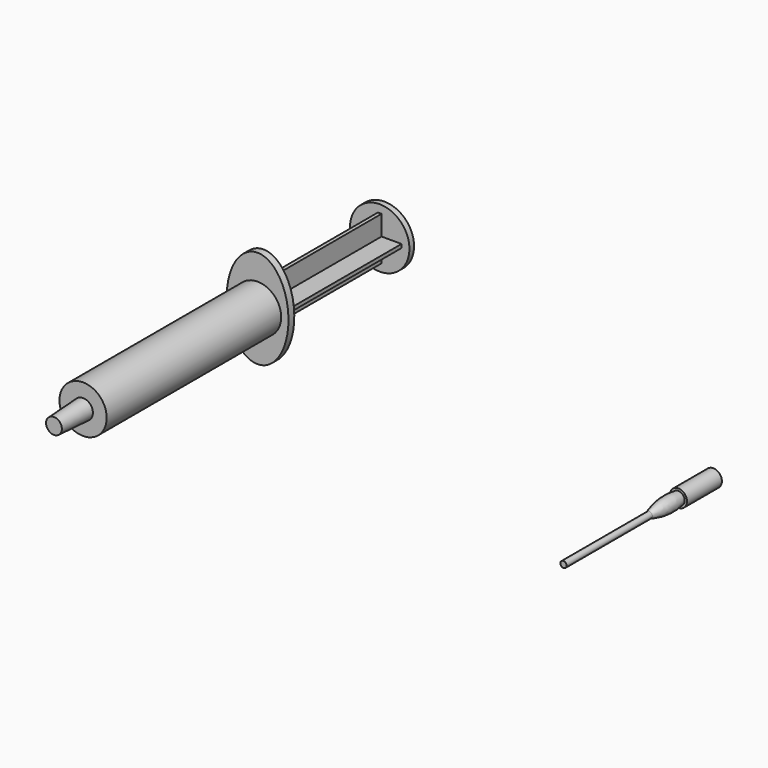
from build123d import *

# Parameters (mm, degrees)
F0_R     = 6.5
F1_DEPTH = 2
F2_DEPTH = 60
F3_W     = 1
F3_H     = 1
F3_H_2   = 5.5
F3_W_2   = 5.5
F4_DEPTH = 40
F5_R     = 8.17
F6_DEPTH = 1.6
F7_R     = 2.7
F8_DEPTH = 10
F8_TAPER = 3


with BuildPart() as f1:
    # F0 (on Front) → F1 (new body)
    with BuildSketch(Plane.XZ):
        with BuildLine():
            add(Edge.make_bspline(
                [(-135.1431305561, 5.6327479952), (-149.8655624204, 5.6327479952), (-142.5043464882, -14.6172520048), (-135.1431305561, -34.8672520048), (-127.7819146239, -14.6172520048), (-120.4206986917, 5.6327479952), (-135.1431305561, 5.6327479952)],
                knots=[0, 0, 0, 2.0943951024, 2.0943951024, 4.1887902048, 4.1887902048, 6.2831853072, 6.2831853072, 6.2831853072], degree=2, weights=[1, 0.5, 1, 0.5, 1, 0.5, 1]))
        make_face()
        with Locations((-135.1431305561, -7.8672520048)):
            Circle(F0_R, mode=Mode.SUBTRACT)
        with Locations((-135.1431305561, -7.8672520048)):
            Circle(F0_R)
    extrude(amount=-F1_DEPTH)

    # F0 (on Front) → F2 (join)
    with BuildSketch(Plane.XZ):
        with Locations((-135.1431305561, -7.8672520048)):
            Circle(F0_R)
    extrude(amount=F2_DEPTH)

    # F3 (on face) → F4 (join)
    with BuildSketch(Plane(origin=(0, 2, 0), x_dir=(-1, 0, 0), z_dir=(0, 1, 0))):
        with Locations((135.1431305561, -7.8672520048)):
            Rectangle(F3_W, F3_H)
        with Locations((135.1431305561, -4.6172520048)):
            Rectangle(F3_W, F3_H_2)
        with Locations((138.3931305561, -7.8672520048)):
            Rectangle(F3_W_2, F3_H)
        with Locations((135.1431305561, -11.1172520048)):
            Rectangle(F3_W, F3_H_2)
        with Locations((131.8931305561, -7.8672520048)):
            Rectangle(F3_W_2, F3_H)
    extrude(amount=F4_DEPTH)

    # F5 (on face) → F6 (join)
    with BuildSketch(Plane(origin=(0, 42, 0), x_dir=(-1, 0, 0), z_dir=(0, 1, 0))):
        with Locations((135.1431305561, -7.8672520048)):
            Circle(F5_R)
        Polygon((135.6431305561, -1.8672520048), (135.6431305561, -7.3672520048), (141.1431305561, -7.3672520048), (141.1431305561, -8.3672520048), (135.6431305561, -8.3672520048), (135.6431305561, -13.8672520048), (134.6431305561, -13.8672520048), (134.6431305561, -8.3672520048), (129.1431305561, -8.3672520048), (129.1431305561, -7.3672520048), (134.6431305561, -7.3672520048), (134.6431305561, -1.8672520048), align=None, mode=Mode.SUBTRACT)
        Polygon((141.1431305561, -7.3672520048), (135.6431305561, -7.3672520048), (135.6431305561, -1.8672520048), (134.6431305561, -1.8672520048), (134.6431305561, -7.3672520048), (129.1431305561, -7.3672520048), (129.1431305561, -8.3672520048), (134.6431305561, -8.3672520048), (134.6431305561, -13.8672520048), (135.6431305561, -13.8672520048), (135.6431305561, -8.3672520048), (141.1431305561, -8.3672520048), align=None)
    extrude(amount=F6_DEPTH)

    # F7 (on face) → F8 (join)
    with BuildSketch(Plane.XZ.offset(60)):
        with Locations((-135.1431305561, -7.8672520048)):
            Circle(F7_R)
    extrude(amount=F8_DEPTH, taper=F8_TAPER)


with BuildPart() as f10:
    # F9 (on Top) → F10 (revolve)
    with BuildSketch(Plane.XY):
        Polygon((0, -24.2443063855), (1.7516354565, -24.2443063855), (2.375, -24.2443063855), (2.375, -12.2443063855), (0, -12.2443063855), align=None)
        with BuildLine():
            Line((0, -63.7547517743), (0.8625133196, -63.7547517743))
            Line((0.8625133196, -63.7547517743), (0.8625133196, -34.2443063855))
            ThreePointArc((0.8625133196, -34.2443063855), (1.9447499627, -29.3010035325), (1.7516354565, -24.2443063855))
            Line((1.7516354565, -24.2443063855), (0, -24.2443063855))
            Line((0, -24.2443063855), (0, -63.7547517743))
        make_face()
    revolve(axis=Axis((0, -31.8773758872, 0), (0, -1, 0)))


solid = Compound([f1.part, f10.part])
